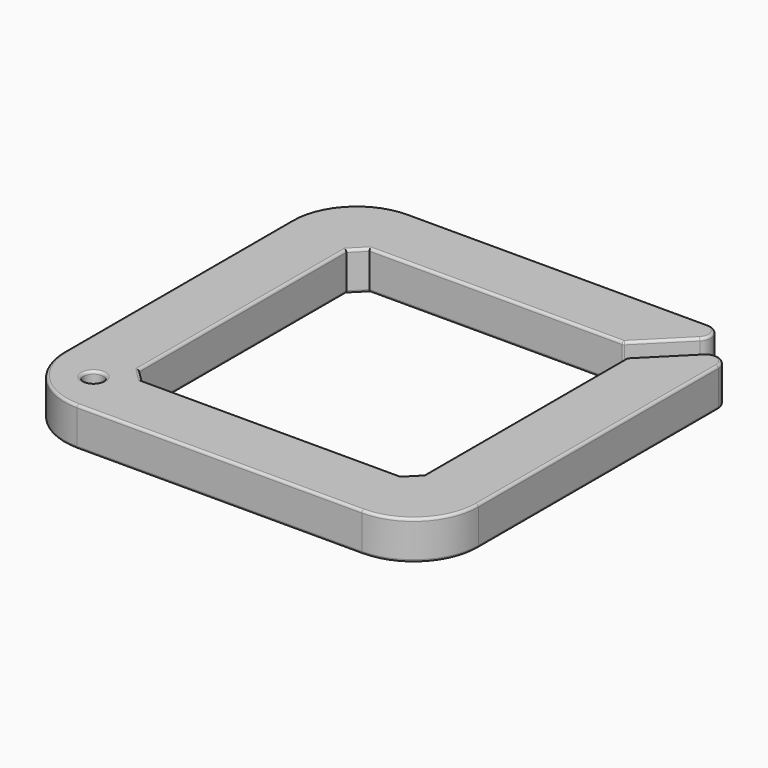
from build123d import *

# Parameters (mm, degrees)
F0_R     = 0.75
F1_DEPTH = 3
F2_SIZE2 = 1
F2_SIZE  = 1
F3_R     = 5
F4_R     = 1
F5_R     = 0.2


with BuildPart() as f1:
    # F0 (on Top) → F1 (new body)
    with BuildSketch(Plane.XY):
        Polygon((11.1485209167, 16), (-16, 16), (-16, -16), (16, -16), (16, 11.1485209167), (16, 14.5857864376), (11, 9.5857864376), (11, 6.1485209167), (11, -11), (-11, -11), (-11, 11), (6.1485209167, 11), (9.5857864376, 11), (14.5857864376, 16), align=None)
        with Locations((-12.5174511524, -12.5174511524)):
            Circle(F0_R, mode=Mode.SUBTRACT)
    extrude(amount=F1_DEPTH)

    # F2
    f2_edges = [f1.edges().sort_by_distance(p)[0] for p in [
        (-11, 11, 1.5),
        (11, -11, 1.5),
        (-11, -11, 1.5),
    ]]
    chamfer(f2_edges, length=F2_SIZE, length2=F2_SIZE2)

    # F3
    f3_edges = [f1.edges().sort_by_distance(p)[0] for p in [
        (16, -16, 1.5),
        (-16, 16, 1.5),
        (-16, -16, 1.5),
    ]]
    fillet(f3_edges, radius=F3_R)

    # F4
    f4_edges = [f1.edges().sort_by_distance(p)[0] for p in [
        (16, 14.585786, 1.5),
        (14.585786, 16, 1.5),
    ]]
    fillet(f4_edges, radius=F4_R)

    # F5
    f5_edges = [f1.edges().sort_by_distance(p)[0] for p in [
        (16, 0.585786, 3),
        (16, 0.585786, 0),
        (15.382683, 13.095452, 3),
        (14.535534, -14.535534, 3),
        (12.646447, 11.232233, 3),
        (0, -16, 3),
        (11, -0.207107, 3),
        (-14.535534, -14.535534, 3),
        (10.5, -10.5, 3),
        (-16, 0, 3),
        (0, -11, 3),
        (-14.535534, 14.535534, 3),
        (-10.5, -10.5, 3),
        (0.585786, 16, 3),
        (-11, 0, 3),
        (13.095452, 15.382683, 3),
        (-10.5, 10.5, 3),
        (11.232233, 12.646447, 3),
        (-0.207107, 11, 3),
        (-13.267451, -12.517451, 3),
        (15.382683, 13.095452, 0),
        (14.535534, -14.535534, 0),
        (12.646447, 11.232233, 0),
        (0, -16, 0),
        (11, -0.207107, 0),
        (-14.535534, -14.535534, 0),
        (10.5, -10.5, 0),
        (-16, 0, 0),
        (0, -11, 0),
        (-14.535534, 14.535534, 0),
        (-10.5, -10.5, 0),
        (0.585786, 16, 0),
        (-11, 0, 0),
        (13.095452, 15.382683, 0),
        (-10.5, 10.5, 0),
        (11.232233, 12.646447, 0),
        (-0.207107, 11, 0),
        (-13.267451, -12.517451, 0),
        (11, 9.585786, 1.5),
        (9.585786, 11, 1.5),
    ]]
    fillet(f5_edges, radius=F5_R)


solid = f1.part
